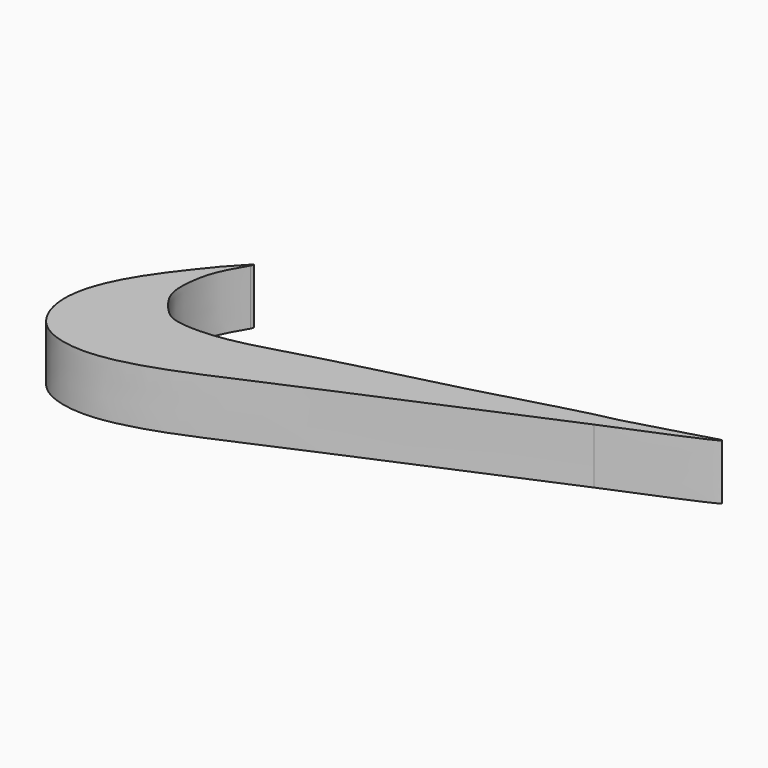
from build123d import *

# Parameters (mm, degrees)
F1_DEPTH = 8


with BuildPart() as f1:
    # F0 (on Top) → F1 (new body)
    with BuildSketch(Plane.XY):
        with BuildLine():
            add(Edge.make_bspline(
                [(-31.925920397, 42.1019941568), (-32.2672637432, 41.5225350511), (-33.0250772997, 40.2360826543), (-34.4332871052, 37.4126132116), (-34.9123807874, 33.6967238153), (-34.7522232093, 30.6820982497), (-32.2483767869, 27.551508539), (-30.1280873211, 25.9982580623), (-23.2136414123, 25.8985839789), (-14.637507484, 28.5992024836), (-8.9966561085, 30.0548889707), (-6.2214755453, 30.7710561901)],
                knots=[0, 0, 0, 0, 0.0767905302, 0.1704820247, 0.2722923582, 0.3636560745, 0.4657956059, 0.5492354102, 0.6831079087, 0.8440957377, 1, 1, 1, 1], degree=3))
            add(Edge.make_bspline(
                [(-34.3799516559, 39.8144759238), (-33.4640573999, 40.7975306351), (-32.2367674797, 42.1148149509), (-31.6852405978, 42.7044990339), (-31.8433341687, 42.3087360832), (-31.925920397, 42.1019941568)],
                knots=[0, 0, 0, 0, 0.5841612292, 0.7827707005, 1, 1, 1, 1], degree=3))
            add(Edge.make_bspline(
                [(22.4595442414, 35.9914936125), (11.9994682692, 31.5477248451), (-6.0091481077, 23.8970990551), (-22.2096591886, 16.683032636), (-27.9209285227, 14.8665110632), (-33.9190612211, 13.6380354591), (-41.2593796473, 15.2730330889), (-44.2843677527, 22.6161767064), (-41.3427064006, 31.2706415637), (-36.7957065415, 36.8501593058), (-34.3799516559, 39.8144759238)],
                knots=[0, 0, 0, 0, 0.2176113285, 0.3746510966, 0.4655910353, 0.5587419795, 0.6590621446, 0.759197529, 0.8720651498, 1, 1, 1, 1], degree=3))
            add(Edge.make_bspline(
                [(23.9381510764, 38.6118665338), (27.2939557132, 39.5378270102), (32.5334094014, 40.9835390103), (35.7819806602, 42.0467332621), (36.8004730683, 41.9076279484), (29.2617388747, 38.7976366256), (22.4595442414, 35.9914936125)],
                knots=[0, 0, 0, 0, 0.3389641939, 0.5292284231, 0.5752231327, 1, 1, 1, 1], degree=3))
            add(Edge.make_bspline(
                [(-6.2214755453, 30.7710561901), (-0.9136764342, 32.1025421458), (8.7198440329, 34.51915531), (19.108058384, 37.5876986335), (22.5616234109, 38.3199890195), (23.9381510764, 38.6118665338)],
                knots=[0, 0, 0, 0, 0.4246126437, 0.770661155, 1, 1, 1, 1], degree=3))
        make_face()
    extrude(amount=F1_DEPTH)


solid = f1.part
